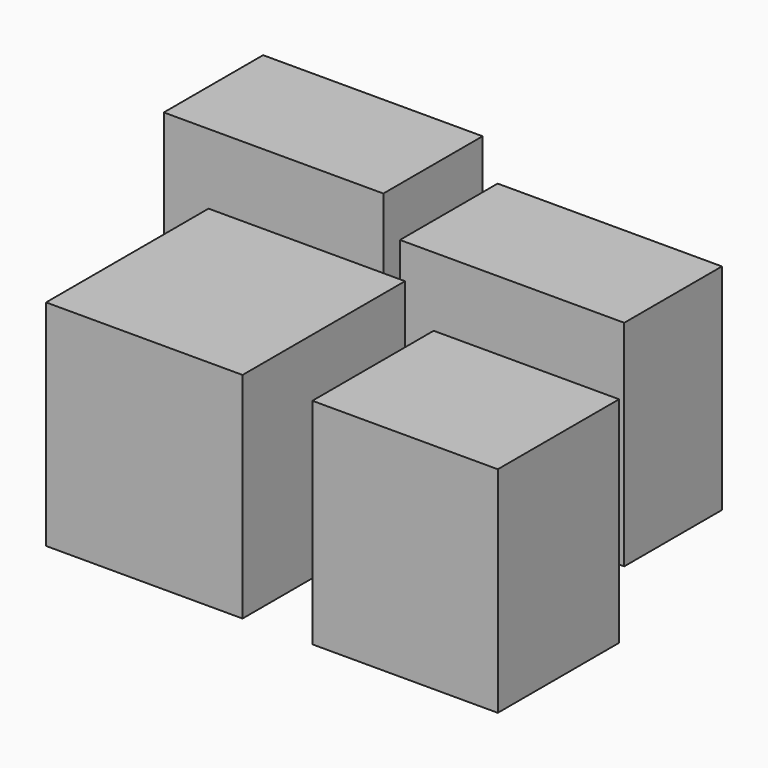
from build123d import *

# Parameters (mm, degrees)
F0_W     = 41.224843
F0_H     = 42.614821
F0_W_2   = 47.060821
F0_H_2   = 25.621509
F0_W_3   = 38.908518
F0_H_3   = 31.808489
F0_W_4   = 46.062274
F0_H_4   = 26.030243
F1_DEPTH = 45


with BuildPart() as f1:
    # F0 (on Top) → F1 (new body)
    with BuildSketch(Plane.XY):
        with Locations((-10.824211, -21.30741)):
            Rectangle(F0_W, F0_H)
        with Locations((23.53041, 23.724799)):
            Rectangle(F0_W_2, F0_H_2)
        with Locations((43.898683, -26.710576)):
            Rectangle(F0_W_3, F0_H_3)
        with Locations((-35.449737, 35.08944)):
            Rectangle(F0_W_4, F0_H_4)
    extrude(amount=F1_DEPTH)


solid = f1.part
